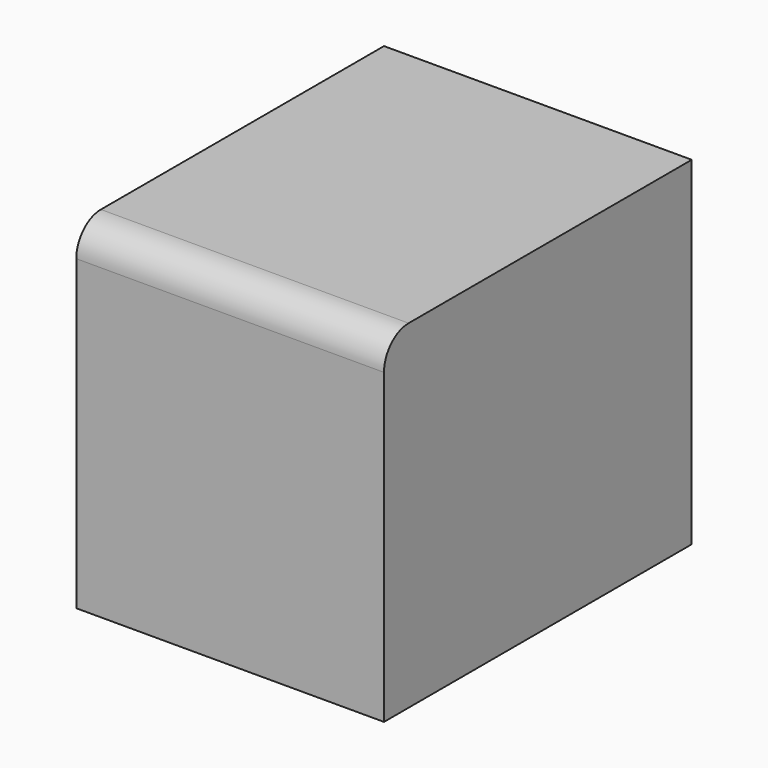
from build123d import *

# Parameters (mm, degrees)
F0_W     = 254
F0_H     = 279.4
F1_DEPTH = 317.5
F2_R     = 25.4


with BuildPart() as f1:
    # F0 (on Front) → F1 (new body)
    with BuildSketch(Plane.XZ):
        with Locations((127, 139.7)):
            Rectangle(F0_W, F0_H)
    extrude(amount=-F1_DEPTH)

    # F2
    f2_edges = [f1.edges().sort_by_distance(p)[0] for p in [
        (127, 0, 279.4),
    ]]
    fillet(f2_edges, radius=F2_R)


solid = f1.part
